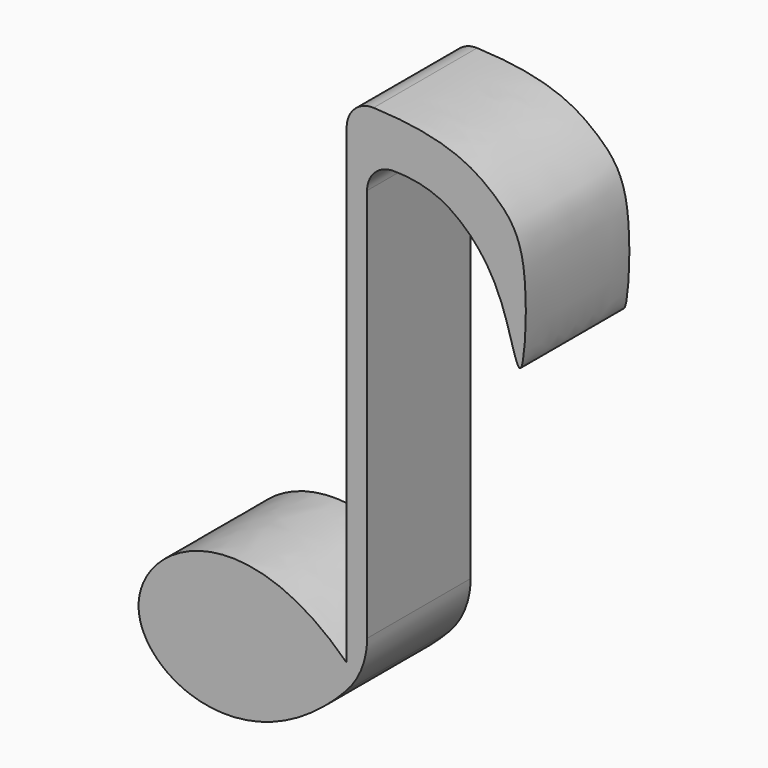
from build123d import *

# Parameters (mm, degrees)
PAD_DEPTH   = 10
FILLET_R    = 6
FILLET001_R = 2
FILLET002_R = 2


with BuildPart() as part:
    # Sketch → Pad (new body)
    with BuildSketch(Plane.XZ):
        with BuildLine():
            Line((0, 0), (0, -38.45))
            add(Edge.make_bspline(
                [(0, -38.45), (-8.348789, -30.265072), (-24.813946, -40.91254), (-6.263206, -48.815815), (1.575816, -38.447519)],
                knots=[0, 0, 0, 0, 0.5, 1, 1, 1, 1], degree=3))
            Line((1.575816, -38.447519), (1.575816, -3.957519))
            add(Edge.make_bspline(
                [(1.58, 0), (7.444154, -0.157071), (11.691713, -2.783852), (14.206716, -5.913633), (13.59183, -16.980009), (12.355664, -9.863976), (9.232493, -5.24333), (5.368032, -3.463092), (1.575816, -3.957519)],
                knots=[0, 0, 0, 0, 0.166667, 0.333333, 0.5, 0.666667, 0.833333, 1, 1, 1, 1], degree=3))
            Line((1.58, 0), (0, 0))
        make_face()
    extrude(amount=PAD_DEPTH)

    # Fillet
    fillet_edges = [part.edges().sort_by_distance(p)[0] for p in [
        (1.575816, -5, -38.447519),
    ]]
    fillet(fillet_edges, radius=FILLET_R)

    # Fillet001
    fillet001_edges = [part.edges().sort_by_distance(p)[0] for p in [
        (1.575816, -5, -3.957519),
    ]]
    fillet(fillet001_edges, radius=FILLET001_R)

    # Fillet002
    fillet002_edges = [part.edges().sort_by_distance(p)[0] for p in [
        (0, -5, 0),
    ]]
    fillet(fillet002_edges, radius=FILLET002_R)


solid = part.part
